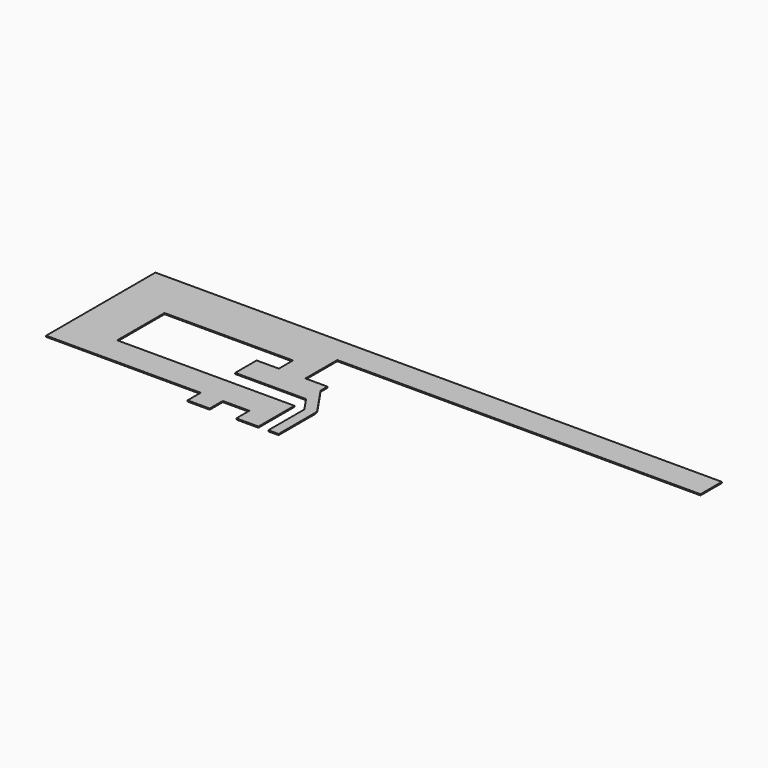
from build123d import *

# Parameters (mm, degrees)
F1_DEPTH = 0.05


with BuildPart() as f1:
    # F0 (on Top) → F1 (new body)
    with BuildSketch(Plane.XY):
        with BuildLine():
            Line((0.150065, 2.289135), (-0.23, 2.03))
            Line((-0.23, 2.03), (-0.23, 0))
            Line((-0.23, 0), (0.23, 0))
            Line((0.23, 0), (0.23, 2.03))
            ThreePointArc((0.23, 2.03), (0.209562, 2.165592), (0.150065, 2.289135))
        make_face()
        Polygon((-1.68, 0), (-0.68, 0), (-0.68, 2.03), (-8.68, 2.03), (-8.68, 4.7), (-2.88, 4.7), (-2.88, 3.9), (-3.88, 3.9), (-3.88, 2.69), (-0.68, 2.69), (-0.68, 3.506563), (-0.68, 3.9), (-1.68, 3.9), (-1.68, 5.7), (14.72, 5.7), (14.72, 6.91), (-10.86, 6.91), (-10.86, 0.74), (-3.88, 0.74), (-3.88, 0), (-2.88, 0), (-2.88, 0.74), (-1.68, 0.74), align=None)
        Polygon((-0.68, 3.506563), (-0.68, 2.69), (-0.23, 2.03), (0.150065, 2.289135), align=None)
    extrude(amount=-F1_DEPTH)


solid = f1.part
